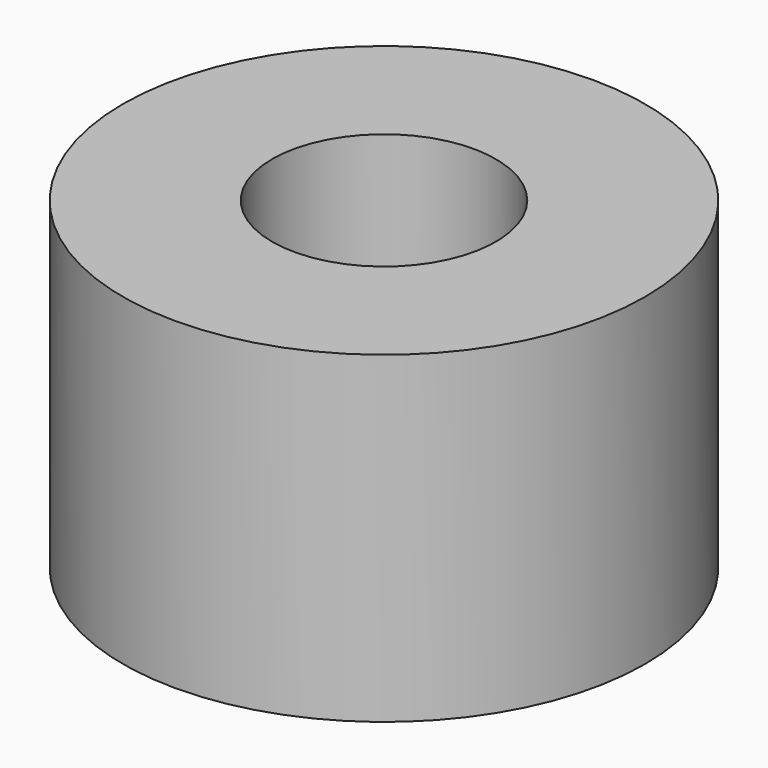
from build123d import *


with BuildPart() as f1:
    # F0 (on Front) → F1 (revolve)
    with BuildSketch(Plane.XZ):
        with BuildLine():
            ThreePointArc((-5.25, -0.649063), (-3.764017, -0.259746), (-2.25, 0))
            Line((-2.25, 0), (-2.25, 5.850937))
            Line((-2.25, 5.850937), (-5.25, 5.850937))
            Line((-5.25, 5.850937), (-5.25, -0.649063))
        make_face()
    revolve(axis=Axis((0, 0, 2.538687), (0, 0, 1)))


solid = f1.part
